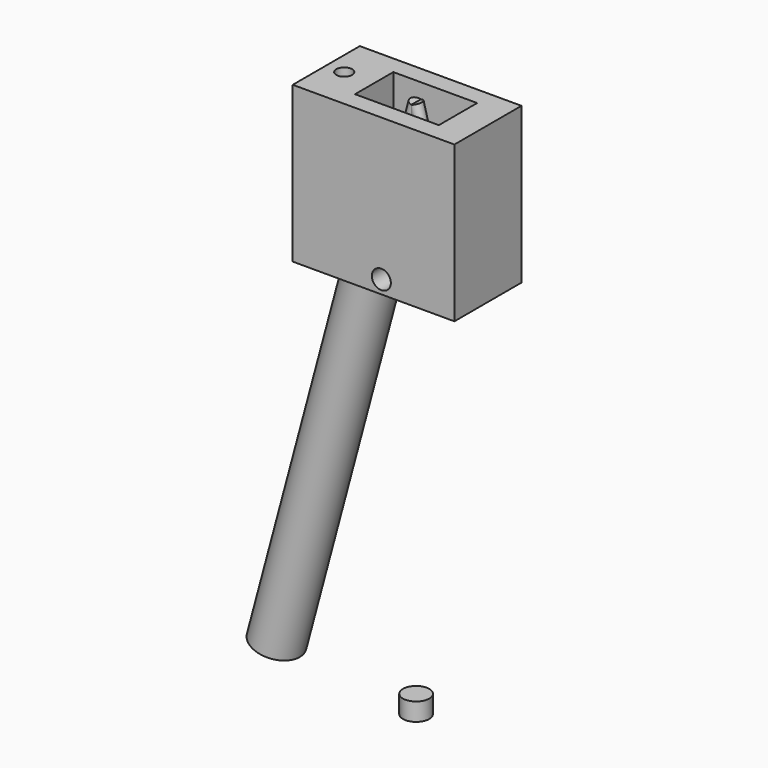
from build123d import *

# Parameters (mm, degrees)
CYLINDER001_R            = 2.2
CYLINDER001_DEPTH        = 3
CYLINDER003_R            = 1
CYLINDER003_DEPTH        = 15
CYLINDER003_PITCH_ANGLE  = -15
CYLINDER002_R            = 1
CYLINDER002_DEPTH        = 90
CYLINDER002_PITCH_ANGLE  = 15
FUSION_PLACEMENT_ANGLE   = 180
CYLINDER004_R            = 1.32
CYLINDER004_DEPTH        = 15
CYLINDER006_R            = 3
CYLINDER006_DEPTH        = 113
CYLINDER006_PITCH_ANGLE  = 15
CYLINDER007_R            = 0.4
CYLINDER007_DEPTH        = 10
CYLINDER007_PITCH_ANGLE  = 15
CYLINDER008_R            = 0.4
CYLINDER008_DEPTH        = 10
CYLINDER008_PITCH_ANGLE  = 15
BOX001_W                 = 14
BOX001_H                 = 8
BOX001_DEPTH             = 19
CYLINDER009_R            = 1.5875
CYLINDER009_DEPTH        = 32
CYLINDER009_ROLL_ANGLE   = 90
CYLINDER_R               = 4.59
CYLINDER_DEPTH           = 15
CYLINDER_PLACEMENT_ANGLE = 165
CYLINDER005_R            = 4
CYLINDER005_DEPTH        = 70
CYLINDER005_PITCH_ANGLE  = 15
BOX_W                    = 27
BOX_H                    = 14
BOX_DEPTH                = 26


with BuildPart() as obj1:
    # Cylinder001 → Cylinder001 (new body)
    with BuildSketch(Plane.XY.offset(-90)):
        Circle(CYLINDER001_R)
    extrude(amount=CYLINDER001_DEPTH)


with BuildPart() as cylinder001:
    # Cylinder003 → Cylinder003 (new body)
    with BuildSketch(Plane.XY):
        Circle(CYLINDER003_R)
    extrude(amount=CYLINDER003_DEPTH)


with BuildPart() as cylinder001_1:
    # Cylinder003 pitch: moved
    add(cylinder001.part.rotate(Axis((0, 0, 0), (0, 1, 0)), CYLINDER003_PITCH_ANGLE))


with BuildPart() as cylinder001_2:
    # Cylinder003 placement: moved
    add(cylinder001_1.part)


with BuildPart() as beam:
    # Cylinder002 → Cylinder002 (new body)
    with BuildSketch(Plane.XY):
        Circle(CYLINDER002_R)
    extrude(amount=CYLINDER002_DEPTH)


with BuildPart() as beam_1:
    # Cylinder002 pitch: moved
    add(beam.part.rotate(Axis((0, 0, 0), (0, 1, 0)), CYLINDER002_PITCH_ANGLE))


with BuildPart() as beam_2:
    # Cylinder002 placement: moved
    add(beam_1.part)

    # Fusion: union Cylinder001
    add(cylinder001_2.part)


with BuildPart() as beam_3:
    # Fusion placement: moved
    add(beam_2.part.rotate(Axis((0, 0, 0), (0, 1, 0)), FUSION_PLACEMENT_ANGLE))


with BuildPart() as screw:
    # Cylinder004 → Cylinder004 (new body)
    with BuildSketch(Plane(origin=(-12, 0, -14), x_dir=(1, 0, 0), z_dir=(0, 0, 1))):
        Circle(CYLINDER004_R)
    extrude(amount=CYLINDER004_DEPTH)


with BuildPart() as opticalbarrelcut:
    # Cylinder006 → Cylinder006 (new body)
    with BuildSketch(Plane.XY):
        Circle(CYLINDER006_R)
    extrude(amount=CYLINDER006_DEPTH)


with BuildPart() as opticalbarrelcut_1:
    # Cylinder006 pitch: moved
    add(opticalbarrelcut.part.rotate(Axis((0, 0, 0), (0, 1, 0)), CYLINDER006_PITCH_ANGLE))


with BuildPart() as opticalbarrelcut_2:
    # Cylinder006 placement: moved
    add(opticalbarrelcut_1.part.moved(Location((-22.5, 0, -84))))


with BuildPart() as opticalbarrel002:
    # Cylinder007 → Cylinder007 (new body)
    with BuildSketch(Plane.XY):
        Circle(CYLINDER007_R)
    extrude(amount=CYLINDER007_DEPTH)


with BuildPart() as opticalbarrel002_1:
    # Cylinder007 pitch: moved
    add(opticalbarrel002.part.rotate(Axis((0, 0, 0), (0, 1, 0)), CYLINDER007_PITCH_ANGLE))


with BuildPart() as opticalbarrel002_2:
    # Cylinder007 placement: moved
    add(opticalbarrel002_1.part.moved(Location((-24, 0, -92))))


with BuildPart() as opticalbarrel003:
    # Cylinder008 → Cylinder008 (new body)
    with BuildSketch(Plane.XY):
        Circle(CYLINDER008_R)
    extrude(amount=CYLINDER008_DEPTH)


with BuildPart() as opticalbarrel003_1:
    # Cylinder008 pitch: moved
    add(opticalbarrel003.part.rotate(Axis((0, 0, 0), (0, 1, 0)), CYLINDER008_PITCH_ANGLE))


with BuildPart() as opticalbarrel003_2:
    # Cylinder008 placement: moved
    add(opticalbarrel003_1.part.moved(Location((-25.3, 0, -92))))


with BuildPart() as cube:
    # Box001 → Box001 (new body)
    with BuildSketch(Plane(origin=(-7, -4, -16), x_dir=(1, 0, 0), z_dir=(0, 0, 1))):
        with Locations((7, 4)):
            Rectangle(BOX001_W, BOX001_H)
    extrude(amount=BOX001_DEPTH)


with BuildPart() as mount:
    # Cylinder009 → Cylinder009 (new body)
    with BuildSketch(Plane.XY):
        Circle(CYLINDER009_R)
    extrude(amount=CYLINDER009_DEPTH)


with BuildPart() as mount_1:
    # Cylinder009 roll: moved
    add(mount.part.rotate(Axis((0, 0, 0), (1, 0, 0)), CYLINDER009_ROLL_ANGLE))


with BuildPart() as mount_2:
    # Cylinder009 placement: moved
    add(mount_1.part.moved(Location((-0.2, 24, -23.3))))


with BuildPart() as fusion002:
    # Cylinder → Cylinder (new body)
    with BuildSketch(Plane.XY):
        Circle(CYLINDER_R)
    extrude(amount=CYLINDER_DEPTH)


with BuildPart() as fusion002_1:
    # Cylinder placement: moved
    add(fusion002.part.moved(Location((3.88, 0, -14.5))).rotate(Axis((3.88, 0, -14.5), (0, 1, 0)), CYLINDER_PLACEMENT_ANGLE))

    # Fusion002: union Screw, OpticalBarrelCut, OpticalBarrel002, OpticalBarrel003, Cube, Mount
    add(screw.part)
    add(opticalbarrelcut_2.part)
    add(opticalbarrel002_2.part)
    add(opticalbarrel003_2.part)
    add(cube.part)
    add(mount_2.part)


with BuildPart() as opticalbarrel:
    # Cylinder005 → Cylinder005 (new body)
    with BuildSketch(Plane.XY):
        Circle(CYLINDER005_R)
    extrude(amount=CYLINDER005_DEPTH)


with BuildPart() as opticalbarrel_1:
    # Cylinder005 pitch: moved
    add(opticalbarrel.part.rotate(Axis((0, 0, 0), (0, 1, 0)), CYLINDER005_PITCH_ANGLE))


with BuildPart() as opticalbarrel_2:
    # Cylinder005 placement: moved
    add(opticalbarrel_1.part.moved(Location((-23.3, 0, -86.9))))


with BuildPart() as cut:
    # Box → Box (new body)
    with BuildSketch(Plane(origin=(-15, -7, -25.5), x_dir=(1, 0, 0), z_dir=(0, 0, 1))):
        with Locations((13.5, 7)):
            Rectangle(BOX_W, BOX_H)
    extrude(amount=BOX_DEPTH)

    # Fusion001: union OpticalBarrel
    add(opticalbarrel_2.part)

    # Cut: cut Fusion002
    add(fusion002_1.part, mode=Mode.SUBTRACT)


solid = Compound([obj1.part, beam_3.part, cut.part])
